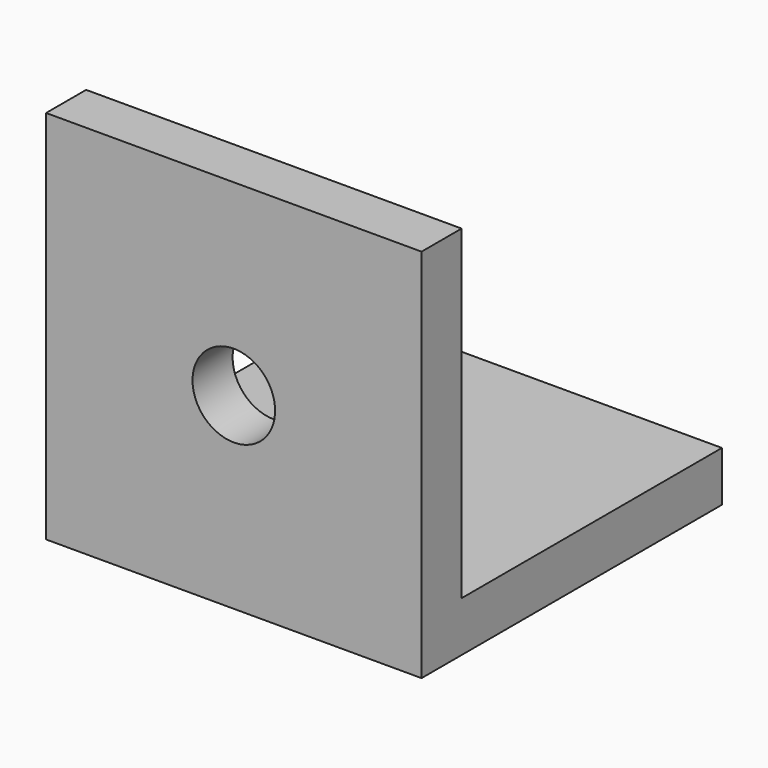
from build123d import *

# Parameters (mm, degrees)
F1_DEPTH = 15
F3_D     = 3.3
F5_D     = 3.3


with BuildPart() as f1:
    # F0 (on Right) → F1 (new body)
    with BuildSketch(Plane.YZ):
        Polygon((0, 15), (0, 0), (15, 0), (15, 2), (2, 2), (2, 15), align=None)
    extrude(amount=F1_DEPTH)

    # F3 (through all)
    with Locations(Plane(origin=(0, 0, 0), x_dir=(1, 0, 0), z_dir=(0, 0, -1))):
        with Locations((7.5, -7.5)):
            Hole(F3_D / 2)

    # F5 (through all)
    with Locations(Plane.XZ):
        with Locations((7.5, 7.5)):
            Hole(F5_D / 2)


solid = f1.part
